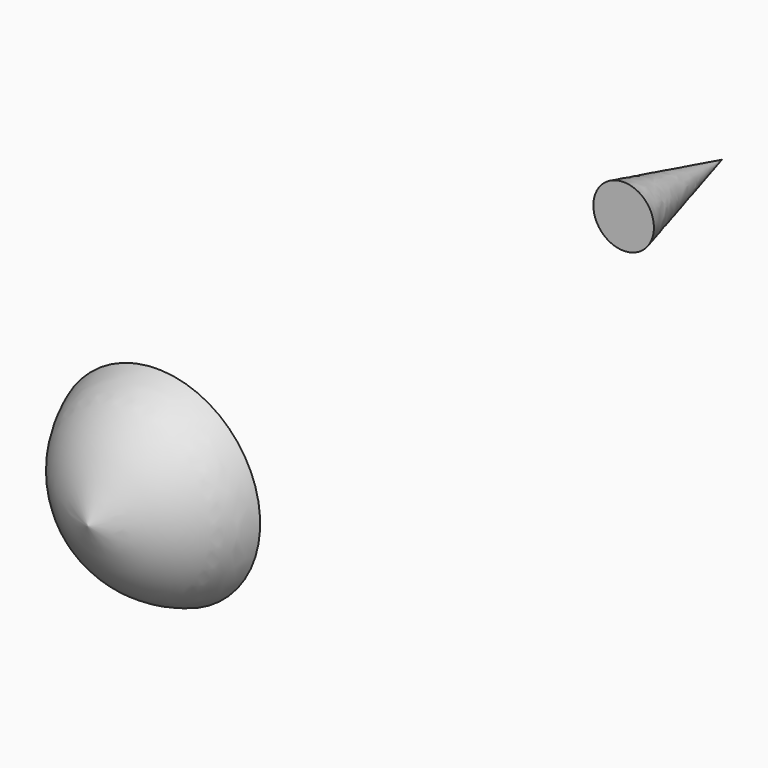
from build123d import *


with BuildPart() as f1:
    # F0 (on Top) → F1 (revolve)
    with BuildSketch(Plane.XY):
        with BuildLine():
            add(Edge.make_bspline(
                [(0, -64.4700080156), (-8.6697802181, -60.8381750281), (-17.4878344891, -57.1442282777), (-21.5401485511, -46.2541312756), (-21.6069500926, -46.068996191)],
                knots=[0, 0, 0, 0, 0.300940266, 0.3060870766, 0.3060870766, 0.3060870766, 0.3060870766], degree=3))
            Line((0, -64.4700080156), (0, -46.068996191))
            Line((0, -46.068996191), (-21.6069500926, -46.068996191))
        make_face()
    revolve(axis=Axis((0, -55.2695021033, 0), (0, 1, 0)))


with BuildPart() as f2:
    # F0 (on Top) → F2 (revolve)
    with BuildSketch(Plane.XY):
        with BuildLine():
            Line((-6.3656084016, 76.4210745687), (0, 76.4210745687))
            Line((0, 76.4210745687), (0, 102.2373735905))
            add(Edge.make_bspline(
                [(-6.3656084016, 76.4210745687), (-4.288291044, 84.9592349275), (-2.1441455316, 93.5983042109), (0, 102.2373735905)],
                knots=[0.9027974278, 0.9027974278, 0.9027974278, 0.9027974278, 1, 1, 1, 1], degree=3))
        make_face()
    revolve(axis=Axis((0, 89.3292240796, 0), (0, 1, 0)))


solid = Compound([f1.part, f2.part])
